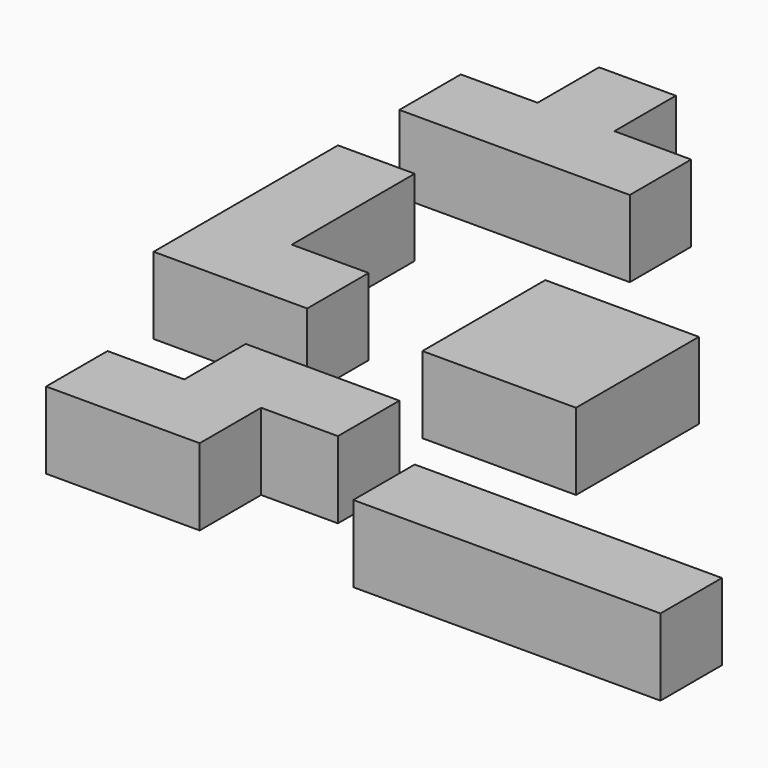
from build123d import *

# Parameters (mm, degrees)
BOX001_W     = 10
BOX001_H     = 10
BOX001_DEPTH = 10
BOX002_W     = 10
BOX002_H     = 10
BOX002_DEPTH = 10
BOX003_W     = 10
BOX003_H     = 10
BOX003_DEPTH = 10
BOX_W        = 10
BOX_H        = 10
BOX_DEPTH    = 10
BOX005_W     = 10
BOX005_H     = 10
BOX005_DEPTH = 10
BOX006_W     = 10
BOX006_H     = 10
BOX006_DEPTH = 10
BOX007_W     = 10
BOX007_H     = 10
BOX007_DEPTH = 10
BOX004_W     = 10
BOX004_H     = 10
BOX004_DEPTH = 10
BOX009_W     = 10
BOX009_H     = 10
BOX009_DEPTH = 10
BOX010_W     = 10
BOX010_H     = 10
BOX010_DEPTH = 10
BOX011_W     = 10
BOX011_H     = 10
BOX011_DEPTH = 10
BOX008_W     = 10
BOX008_H     = 10
BOX008_DEPTH = 10
BOX013_W     = 10
BOX013_H     = 10
BOX013_DEPTH = 10
BOX014_W     = 10
BOX014_H     = 10
BOX014_DEPTH = 10
BOX015_W     = 10
BOX015_H     = 10
BOX015_DEPTH = 10
BOX012_W     = 10
BOX012_H     = 10
BOX012_DEPTH = 10
BOX017_W     = 10
BOX017_H     = 10
BOX017_DEPTH = 10
BOX018_W     = 10
BOX018_H     = 10
BOX018_DEPTH = 10
BOX019_W     = 10
BOX019_H     = 10
BOX019_DEPTH = 10
BOX016_W     = 10
BOX016_H     = 10
BOX016_DEPTH = 10


with BuildPart() as cubo2:
    # Box001 → Box001 (new body)
    with BuildSketch(Plane(origin=(10, 0, 0), x_dir=(1, 0, 0), z_dir=(0, 0, 1))):
        with Locations((5, 5)):
            Rectangle(BOX001_W, BOX001_H)
    extrude(amount=BOX001_DEPTH)


with BuildPart() as cubo3:
    # Box002 → Box002 (new body)
    with BuildSketch(Plane(origin=(20, 0, 0), x_dir=(1, 0, 0), z_dir=(0, 0, 1))):
        with Locations((5, 5)):
            Rectangle(BOX002_W, BOX002_H)
    extrude(amount=BOX002_DEPTH)


with BuildPart() as cubo4:
    # Box003 → Box003 (new body)
    with BuildSketch(Plane(origin=(30, 0, 0), x_dir=(1, 0, 0), z_dir=(0, 0, 1))):
        with Locations((5, 5)):
            Rectangle(BOX003_W, BOX003_H)
    extrude(amount=BOX003_DEPTH)


with BuildPart() as fusion1:
    # Box → Box (new body)
    with BuildSketch(Plane.XY):
        with Locations((5, 5)):
            Rectangle(BOX_W, BOX_H)
    extrude(amount=BOX_DEPTH)

    # Fusion: union cubo2, cubo3, cubo4
    add(cubo2.part)
    add(cubo3.part)
    add(cubo4.part)


with BuildPart() as fusion1_1:
    # Fusion placement: moved
    add(fusion1.part.moved(Location((50, 0, 0))))


with BuildPart() as cubo6:
    # Box005 → Box005 (new body)
    with BuildSketch(Plane(origin=(10, 0, 0), x_dir=(1, 0, 0), z_dir=(0, 0, 1))):
        with Locations((5, 5)):
            Rectangle(BOX005_W, BOX005_H)
    extrude(amount=BOX005_DEPTH)


with BuildPart() as cubo7:
    # Box006 → Box006 (new body)
    with BuildSketch(Plane(origin=(10, 10, 0), x_dir=(1, 0, 0), z_dir=(0, 0, 1))):
        with Locations((5, 5)):
            Rectangle(BOX006_W, BOX006_H)
    extrude(amount=BOX006_DEPTH)


with BuildPart() as cubo8:
    # Box007 → Box007 (new body)
    with BuildSketch(Plane(origin=(20, 0, 0), x_dir=(1, 0, 0), z_dir=(0, 0, 1))):
        with Locations((5, 5)):
            Rectangle(BOX007_W, BOX007_H)
    extrude(amount=BOX007_DEPTH)


with BuildPart() as fusion2:
    # Box004 → Box004 (new body)
    with BuildSketch(Plane.XY):
        with Locations((5, 5)):
            Rectangle(BOX004_W, BOX004_H)
    extrude(amount=BOX004_DEPTH)

    # Fusion001: union cubo6, cubo7, cubo8
    add(cubo6.part)
    add(cubo7.part)
    add(cubo8.part)


with BuildPart() as fusion2_1:
    # Fusion001 placement: moved
    add(fusion2.part.moved(Location((0, 70, 0))))


with BuildPart() as cubo10:
    # Box009 → Box009 (new body)
    with BuildSketch(Plane(origin=(10, 0, 0), x_dir=(1, 0, 0), z_dir=(0, 0, 1))):
        with Locations((5, 5)):
            Rectangle(BOX009_W, BOX009_H)
    extrude(amount=BOX009_DEPTH)


with BuildPart() as cubo11:
    # Box010 → Box010 (new body)
    with BuildSketch(Plane(origin=(10, 10, 0), x_dir=(1, 0, 0), z_dir=(0, 0, 1))):
        with Locations((5, 5)):
            Rectangle(BOX010_W, BOX010_H)
    extrude(amount=BOX010_DEPTH)


with BuildPart() as cubo12:
    # Box011 → Box011 (new body)
    with BuildSketch(Plane(origin=(0, 10, 0), x_dir=(1, 0, 0), z_dir=(0, 0, 1))):
        with Locations((5, 5)):
            Rectangle(BOX011_W, BOX011_H)
    extrude(amount=BOX011_DEPTH)


with BuildPart() as fusion3:
    # Box008 → Box008 (new body)
    with BuildSketch(Plane.XY):
        with Locations((5, 5)):
            Rectangle(BOX008_W, BOX008_H)
    extrude(amount=BOX008_DEPTH)

    # Fusion002: union cubo10, cubo11, cubo12
    add(cubo10.part)
    add(cubo11.part)
    add(cubo12.part)


with BuildPart() as fusion3_1:
    # Fusion002 placement: moved
    add(fusion3.part.moved(Location((35, 30, 0))))


with BuildPart() as cubo14:
    # Box013 → Box013 (new body)
    with BuildSketch(Plane(origin=(0, 10, 0), x_dir=(1, 0, 0), z_dir=(0, 0, 1))):
        with Locations((5, 5)):
            Rectangle(BOX013_W, BOX013_H)
    extrude(amount=BOX013_DEPTH)


with BuildPart() as cubo15:
    # Box014 → Box014 (new body)
    with BuildSketch(Plane(origin=(0, 20, 0), x_dir=(1, 0, 0), z_dir=(0, 0, 1))):
        with Locations((5, 5)):
            Rectangle(BOX014_W, BOX014_H)
    extrude(amount=BOX014_DEPTH)


with BuildPart() as cubo16:
    # Box015 → Box015 (new body)
    with BuildSketch(Plane.XY):
        with Locations((5, 5)):
            Rectangle(BOX015_W, BOX015_H)
    extrude(amount=BOX015_DEPTH)


with BuildPart() as fusion4:
    # Box012 → Box012 (new body)
    with BuildSketch(Plane(origin=(10, 0, 0), x_dir=(1, 0, 0), z_dir=(0, 0, 1))):
        with Locations((5, 5)):
            Rectangle(BOX012_W, BOX012_H)
    extrude(amount=BOX012_DEPTH)

    # Fusion003: union cubo14, cubo15, cubo16
    add(cubo14.part)
    add(cubo15.part)
    add(cubo16.part)


with BuildPart() as fusion4_1:
    # Fusion003 placement: moved
    add(fusion4.part.moved(Location((0, 30, 0))))


with BuildPart() as cubo18:
    # Box017 → Box017 (new body)
    with BuildSketch(Plane(origin=(10, 0, 0), x_dir=(1, 0, 0), z_dir=(0, 0, 1))):
        with Locations((5, 5)):
            Rectangle(BOX017_W, BOX017_H)
    extrude(amount=BOX017_DEPTH)


with BuildPart() as cubo19:
    # Box018 → Box018 (new body)
    with BuildSketch(Plane(origin=(10, 10, 0), x_dir=(1, 0, 0), z_dir=(0, 0, 1))):
        with Locations((5, 5)):
            Rectangle(BOX018_W, BOX018_H)
    extrude(amount=BOX018_DEPTH)


with BuildPart() as cubo20:
    # Box019 → Box019 (new body)
    with BuildSketch(Plane(origin=(20, 10, 0), x_dir=(1, 0, 0), z_dir=(0, 0, 1))):
        with Locations((5, 5)):
            Rectangle(BOX019_W, BOX019_H)
    extrude(amount=BOX019_DEPTH)


with BuildPart() as fusion5:
    # Box016 → Box016 (new body)
    with BuildSketch(Plane.XY):
        with Locations((5, 5)):
            Rectangle(BOX016_W, BOX016_H)
    extrude(amount=BOX016_DEPTH)

    # Fusion004: union cubo18, cubo19, cubo20
    add(cubo18.part)
    add(cubo19.part)
    add(cubo20.part)


with BuildPart() as fusion5_1:
    # Fusion004 placement: moved
    add(fusion5.part.moved(Location((10, 0, 0))))


solid = Compound([fusion1_1.part, fusion2_1.part, fusion3_1.part, fusion4_1.part, fusion5_1.part])
